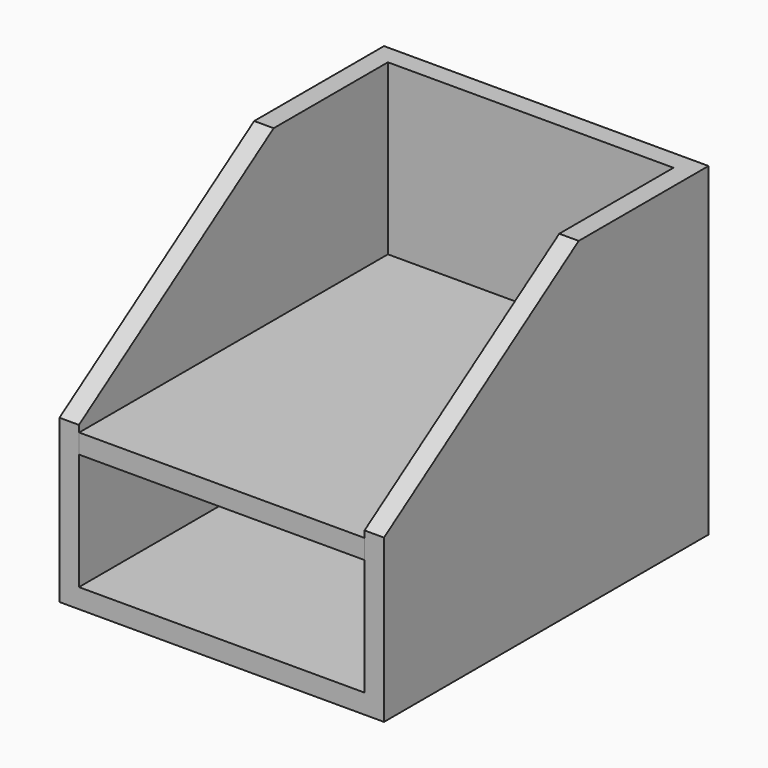
from build123d import *

# Parameters (mm, degrees)
F1_DEPTH = 100
F2_T     = -12
F4_W     = 182.326324
F4_H     = 241.805934
F5_DEPTH = 12


with BuildPart() as f1:
    # F0 (on Right) → F1 (new body, symmetric)
    with BuildSketch(Plane.YZ):
        Polygon((-55.092596, -55.808697), (-55.092596, -155.808697), (194.907404, -155.808697), (194.907404, 44.191303), (94.907404, 44.191303), align=None)
    extrude(amount=F1_DEPTH, both=True)

    # F2
    f2_openings = [f1.faces().sort_by_distance(p)[0] for p in [
        (0, 144.907404, 44.191303),
        (0, 19.907404, -5.808697),
        (0, -55.092596, -105.808697),
    ]]
    offset(amount=F2_T, openings=f2_openings)

    # F4 (on offset) → F5 (join)
    with BuildSketch(Plane.XY.offset(-60)):
        with Locations((0.583131, 65.97941)):
            Rectangle(F4_W, F4_H)
    extrude(amount=-F5_DEPTH)


solid = f1.part
